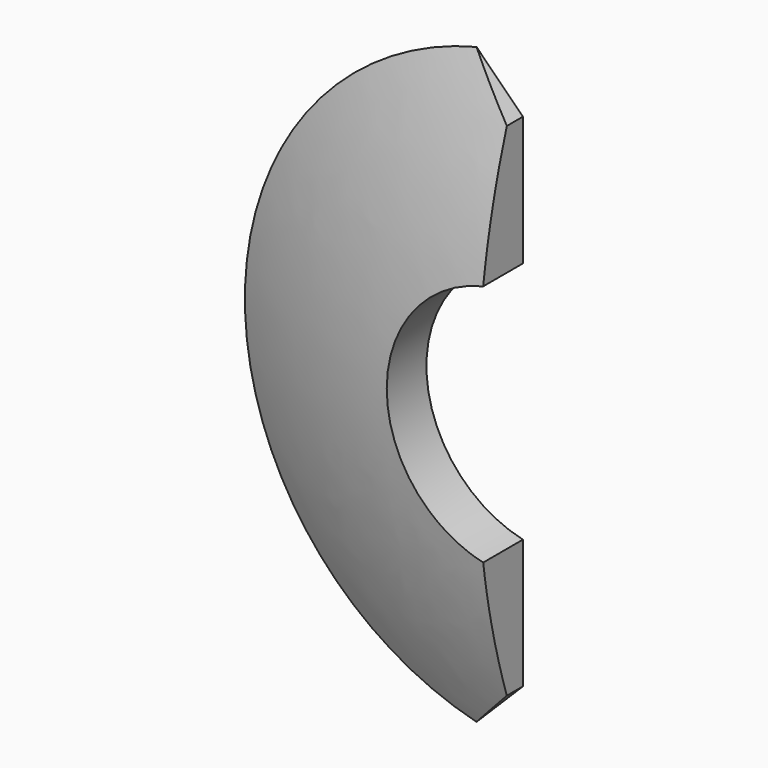
from build123d import *

# Parameters (mm, degrees)
F2_DEPTH = 5


with BuildPart() as f2:
    # F1 (on Front) → F2 (new body)
    with BuildSketch(Plane.XZ):
        with BuildLine():
            ThreePointArc((-2.5, -10.712143), (-11, 0), (-2.5, 10.712143))
            Line((-2.5, 10.712143), (-2.5, 22.100657))
            Line((-2.5, 22.100657), (-6.584224, 26.184881))
            ThreePointArc((-6.584224, 26.184881), (-27, 0), (-6.584224, -26.184881))
            Line((-6.584224, -26.184881), (-2.5, -22.100657))
            Line((-2.5, -22.100657), (-2.5, -10.712143))
        make_face()
    extrude(amount=F2_DEPTH)

    # F3 (on Top) → F4 (revolve, cut)
    with BuildSketch(Plane.XY):
        with BuildLine():
            Line((-27, -5), (-2, -5))
            ThreePointArc((-2, -5), (-14.747549, -3.737744), (-27, 0))
            Line((-27, 0), (-27, -5))
        make_face()
    revolve(axis=Axis((0, -2.5, 0), (0, -1, 0)), mode=Mode.SUBTRACT)


solid = f2.part
